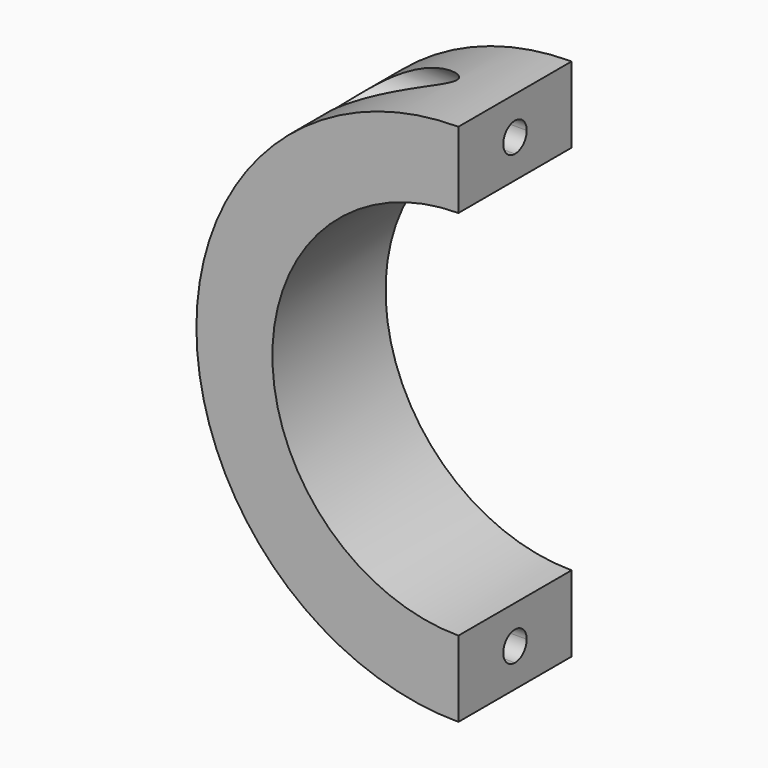
from build123d import *

# Parameters (mm, degrees)
F1_DEPTH = 13.5
F3_DEPTH = 5
F4_R     = 3
F5_DEPTH = 25
F7_DEPTH = 7


with BuildPart() as f1:
    # F0 (on Front) → F1 (new body)
    with BuildSketch(Plane.XZ):
        with BuildLine():
            ThreePointArc((0, -17.75), (-17.75, 0), (0, 17.75))
            Line((0, 17.75), (0, 25))
            ThreePointArc((0, 25), (-25, 0), (0, -25))
            Line((0, -25), (0, -17.75))
        make_face()
    extrude(amount=F1_DEPTH)

    # F2 (on face) → F3 (cut)
    with BuildSketch(Plane.YZ):
        with BuildLine():
            ThreePointArc((-5.35, 21.375), (-5.760051, 22.364949), (-6.75, 22.775))
            Line((-6.75, 22.775), (-6.75, 19.975))
            ThreePointArc((-6.75, 19.975), (-5.760051, 20.385051), (-5.35, 21.375))
        make_face()
        with BuildLine():
            Line((-6.75, 19.975), (-6.75, 22.775))
            ThreePointArc((-6.75, 22.775), (-8.15, 21.375), (-6.75, 19.975))
        make_face()
    extrude(amount=-F3_DEPTH, mode=Mode.SUBTRACT)

    # F4 (on face) → F5 (cut)
    with BuildSketch(Plane.YZ.offset(-5)):
        with Locations((-6.75, 21.375)):
            Circle(F4_R)
    extrude(amount=-F5_DEPTH, mode=Mode.SUBTRACT)

    # F6 (on face) → F7 (cut)
    with BuildSketch(Plane.YZ):
        with BuildLine():
            ThreePointArc((-5.35, -21.375), (-5.760051, -20.385051), (-6.75, -19.975))
            Line((-6.75, -19.975), (-6.75, -22.775))
            ThreePointArc((-6.75, -22.775), (-5.760051, -22.364949), (-5.35, -21.375))
        make_face()
        with BuildLine():
            Line((-6.75, -22.775), (-6.75, -19.975))
            ThreePointArc((-6.75, -19.975), (-8.15, -21.375), (-6.75, -22.775))
        make_face()
    extrude(amount=-F7_DEPTH, mode=Mode.SUBTRACT)


solid = f1.part
